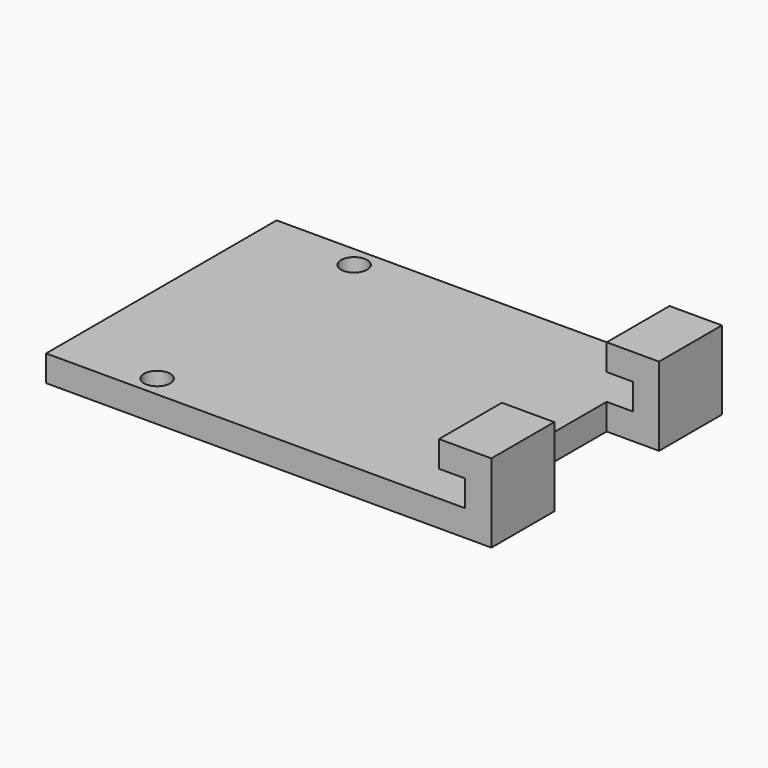
from build123d import *

# Parameters (mm, degrees)
F0_W     = 85
F0_H     = 55
F1_DEPTH = 5
F2_W     = 55
F2_H     = 10
F3_DEPTH = 5
F4_W     = 55
F4_H     = 5
F5_DEPTH = 10
F6_W     = 10
F6_H     = 25
F7_DEPTH = 23.6
F8_R     = 2.5
F9_DEPTH = 25


with BuildPart() as f1:
    # F0 (on Top) → F1 (new body)
    with BuildSketch(Plane.XY):
        with Locations((-0.6882026792, -4.6636614819)):
            Rectangle(F0_W, F0_H)
    extrude(amount=F1_DEPTH)

    # F2 (on face) → F3 (join)
    with BuildSketch(Plane.YZ.offset(41.8117973208)):
        with Locations((-4.6636614819, 5)):
            Rectangle(F2_W, F2_H)
    extrude(amount=-F3_DEPTH)

    # F4 (on face) → F5 (join)
    with BuildSketch(Plane.YZ.offset(41.8117973208)):
        with Locations((-4.6636614819, 12.5)):
            Rectangle(F4_W, F4_H)
    extrude(amount=-F5_DEPTH)

    # F6 (on face) → F7 (cut)
    with BuildSketch(Plane.XY.offset(15)):
        with Locations((36.8117973208, -4.6636614819)):
            Rectangle(F6_W, F6_H)
    extrude(amount=-F7_DEPTH, mode=Mode.SUBTRACT)

    # F8 (on face) → F9 (cut)
    with BuildSketch(Plane.XY.offset(5)):
        with Locations((-25.1882026792, -28.1636614819)):
            Circle(F8_R)
        with Locations((-25.1882026792, 18.8363385181)):
            Circle(F8_R)
    extrude(amount=-F9_DEPTH, mode=Mode.SUBTRACT)


solid = f1.part
